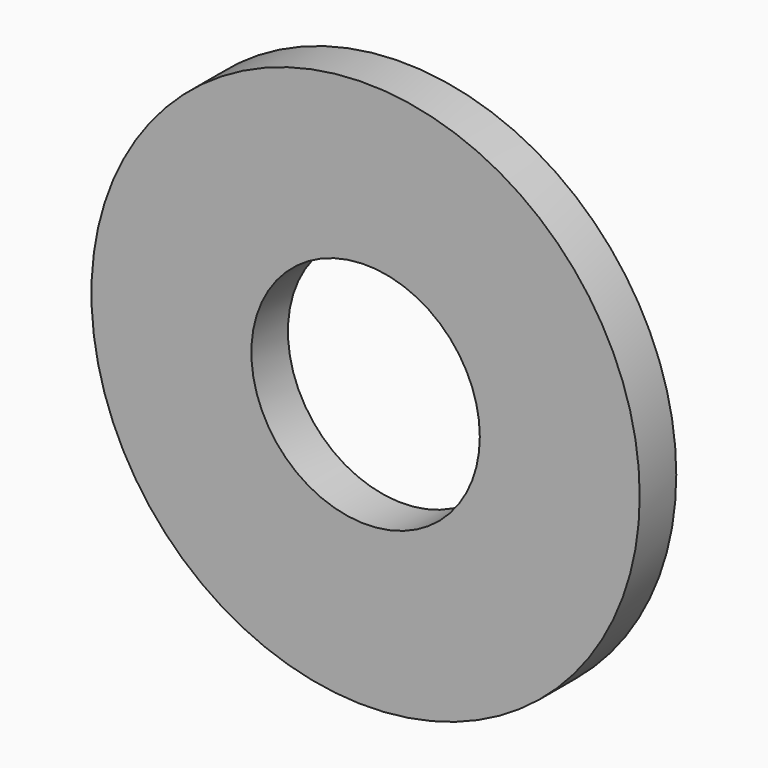
from build123d import *

# Parameters (mm, degrees)
CYLINDER057_R          = 2.5
CYLINDER057_DEPTH      = 1
CYLINDER057_ROLL_ANGLE = 90
CYLINDER055_R          = 6
CYLINDER055_DEPTH      = 1
CYLINDER055_ROLL_ANGLE = 90


with BuildPart() as cylinder057:
    # Cylinder057 → Cylinder057 (new body)
    with BuildSketch(Plane.XY):
        Circle(CYLINDER057_R)
    extrude(amount=CYLINDER057_DEPTH)


with BuildPart() as cylinder057_1:
    # Cylinder057 roll: moved
    add(cylinder057.part.rotate(Axis((0, 0, 0), (1, 0, 0)), CYLINDER057_ROLL_ANGLE))


with BuildPart() as cylinder057_2:
    # Cylinder057 placement: moved
    add(cylinder057_1.part.moved(Location((518, -37, 100))))


with BuildPart() as kipper_closure_spacer_metal:
    # Cylinder055 → Cylinder055 (new body)
    with BuildSketch(Plane.XY):
        Circle(CYLINDER055_R)
    extrude(amount=CYLINDER055_DEPTH)


with BuildPart() as kipper_closure_spacer_metal_1:
    # Cylinder055 roll: moved
    add(kipper_closure_spacer_metal.part.rotate(Axis((0, 0, 0), (1, 0, 0)), CYLINDER055_ROLL_ANGLE))


with BuildPart() as kipper_closure_spacer_metal_2:
    # Cylinder055 placement: moved
    add(kipper_closure_spacer_metal_1.part.moved(Location((518, -37, 100))))

    # Cut055: cut Cylinder057
    add(cylinder057_2.part, mode=Mode.SUBTRACT)


with BuildPart() as kipper_closure_spacer_metal_3:
    # Cut055 placement: moved
    add(kipper_closure_spacer_metal_2.part.moved(Location((-1, 0, 0))))


solid = kipper_closure_spacer_metal_3.part
